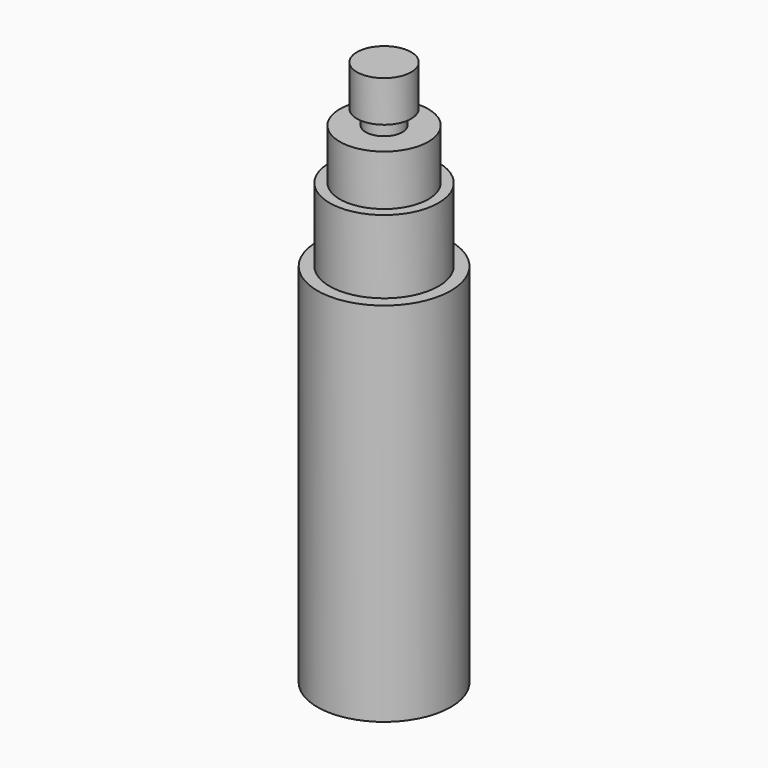
from build123d import *

# Parameters (mm, degrees)
F0_R     = 4.55
F1_DEPTH = 25
F2_R     = 3.715
F3_DEPTH = 5
F4_R     = 3.02
F5_DEPTH = 3.45
F6_R     = 1.25
F7_DEPTH = 1
F8_R     = 1.85
F8_R_2   = 1.25
F9_DEPTH = 2.8


with BuildPart() as f1:
    # F0 (on Top) → F1 (new body)
    with BuildSketch(Plane.XY):
        Circle(F0_R)
    extrude(amount=F1_DEPTH)

    # F2 (on face) → F3 (join)
    with BuildSketch(Plane.XY.offset(25)):
        Circle(F2_R)
    extrude(amount=F3_DEPTH)

    # F4 (on face) → F5 (join)
    with BuildSketch(Plane.XY.offset(30)):
        Circle(F4_R)
    extrude(amount=F5_DEPTH)

    # F6 (on face) → F7 (join)
    with BuildSketch(Plane.XY.offset(33.45)):
        Circle(F6_R)
    extrude(amount=F7_DEPTH)

    # F8 (on face) → F9 (join)
    with BuildSketch(Plane.XY.offset(34.45)):
        Circle(F8_R)
        Circle(F8_R_2, mode=Mode.SUBTRACT)
        Circle(F8_R_2)
    extrude(amount=F9_DEPTH)


solid = f1.part
